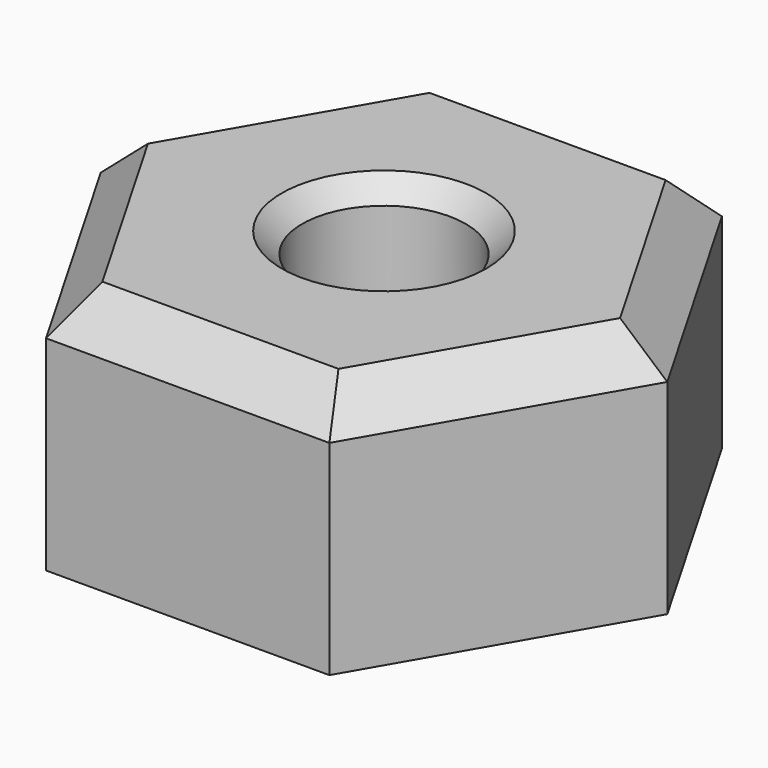
from build123d import *

# Parameters (mm, degrees)
SKETCH_R        = 1.5
PAD_DEPTH       = 6
SKETCH001_R     = 2
POCKET_DEPTH    = 4
CHAMFER_SIZE    = 0.5
CHAMFER001_SIZE = 1


with BuildPart() as part:
    # Sketch → Pad (new body)
    with BuildSketch(Plane.XY):
        Polygon((3.464102, 6), (-3.464102, 6), (-6.928203, 0), (-3.464102, -6), (3.464102, -6), (6.928203, 0), align=None)
        Circle(SKETCH_R, mode=Mode.SUBTRACT)
    extrude(amount=PAD_DEPTH)

    # Sketch001 (on Face9 of Pad) → Pocket (cut)
    with BuildSketch(Plane.XY.offset(6)):
        Circle(SKETCH001_R)
    extrude(amount=-POCKET_DEPTH, mode=Mode.SUBTRACT)

    # Chamfer
    chamfer_edges = [part.edges().sort_by_distance(p)[0] for p in [
        (-2, 0, 6),
    ]]
    chamfer(chamfer_edges, length=CHAMFER_SIZE)

    # Chamfer001
    chamfer001_edges = [part.edges().sort_by_distance(p)[0] for p in [
        (5.196152, -3, 6),
        (5.196152, 3, 6),
        (0, 6, 6),
        (-5.196152, 3, 6),
        (-5.196152, -3, 6),
        (0, -6, 6),
    ]]
    chamfer(chamfer001_edges, length=CHAMFER001_SIZE)


solid = part.part
